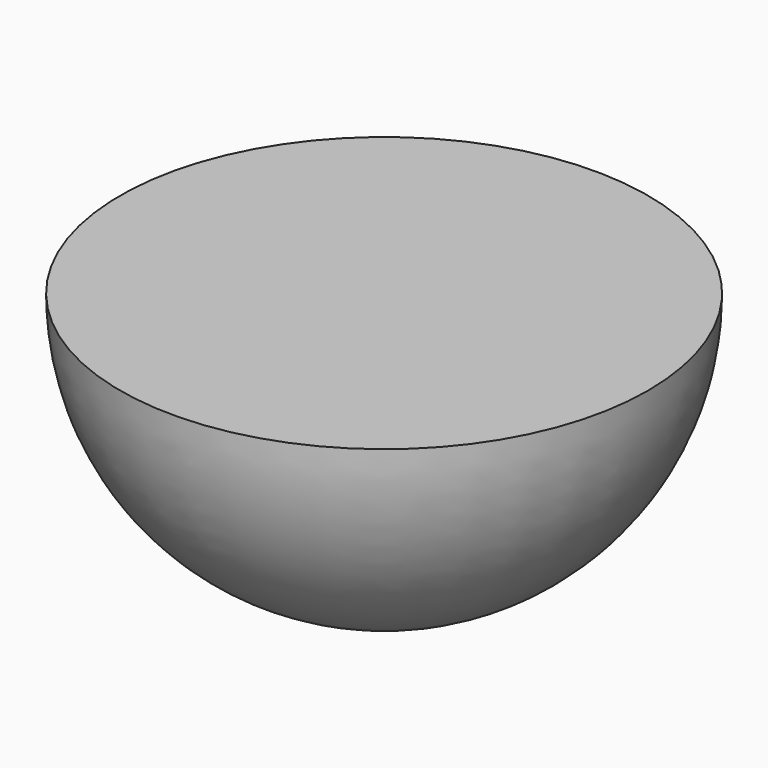
from build123d import *


with BuildPart() as f1:
    # F0 (on Front) → F1 (revolve)
    with BuildSketch(Plane.XZ):
        with BuildLine():
            ThreePointArc((0, -68.511091), (48.444657, -48.444657), (68.511091, 0))
            Line((68.511091, 0), (0, 0))
            Line((0, 0), (0, -68.511091))
        make_face()
    revolve(axis=Axis((0, 0, -34.255546), (0, 0, -1)))


solid = f1.part
